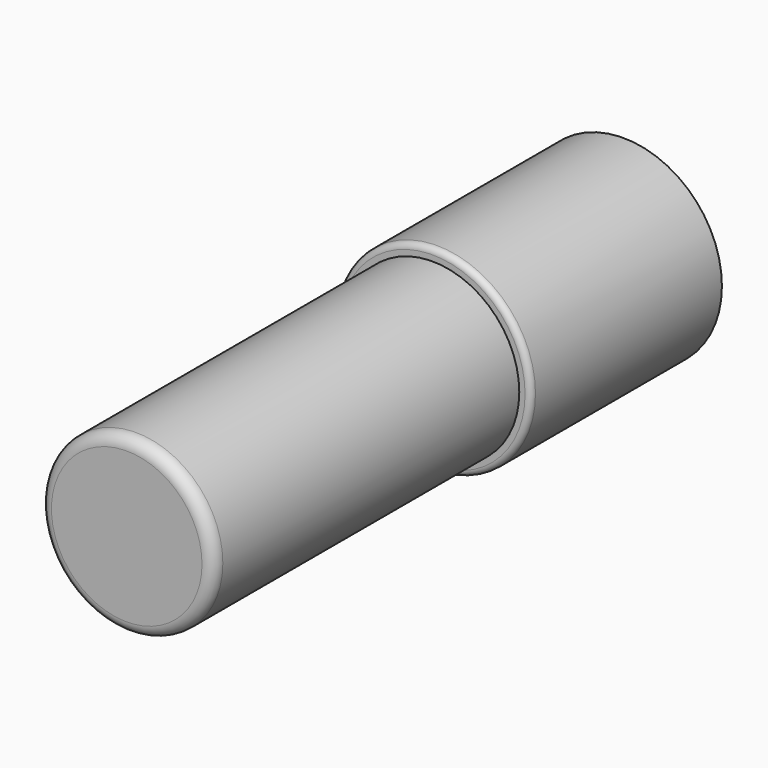
from build123d import *

# Parameters (mm, degrees)
SKETCH112_R  = 3.4
PAD060_DEPTH = 8.25
FILLET010_R  = 0.2
SKETCH109_R  = 3
PAD072_DEPTH = 13.2
FILLET011_R  = 0.4


with BuildPart() as part:
    # Sketch112 → Pad060 (new body)
    with BuildSketch(Plane.XZ):
        Circle(SKETCH112_R)
    extrude(amount=PAD060_DEPTH)

    # Fillet010
    fillet010_edges = [part.edges().sort_by_distance(p)[0] for p in [
        (-3.4, -8.25, 0),
    ]]
    fillet(fillet010_edges, radius=FILLET010_R)

    # Sketch109 (on Face4 of Fillet010) → Pad072 (join)
    with BuildSketch(Plane.XZ.offset(8.25)):
        Circle(SKETCH109_R)
    extrude(amount=PAD072_DEPTH)

    # Fillet011
    fillet011_edges = [part.edges().sort_by_distance(p)[0] for p in [
        (-3, -21.45, 0),
    ]]
    fillet(fillet011_edges, radius=FILLET011_R)


with BuildPart() as part_1:
    # Body029 placement: moved
    add(part.part.moved(Location((0, -1.25, 0))))


solid = part_1.part
